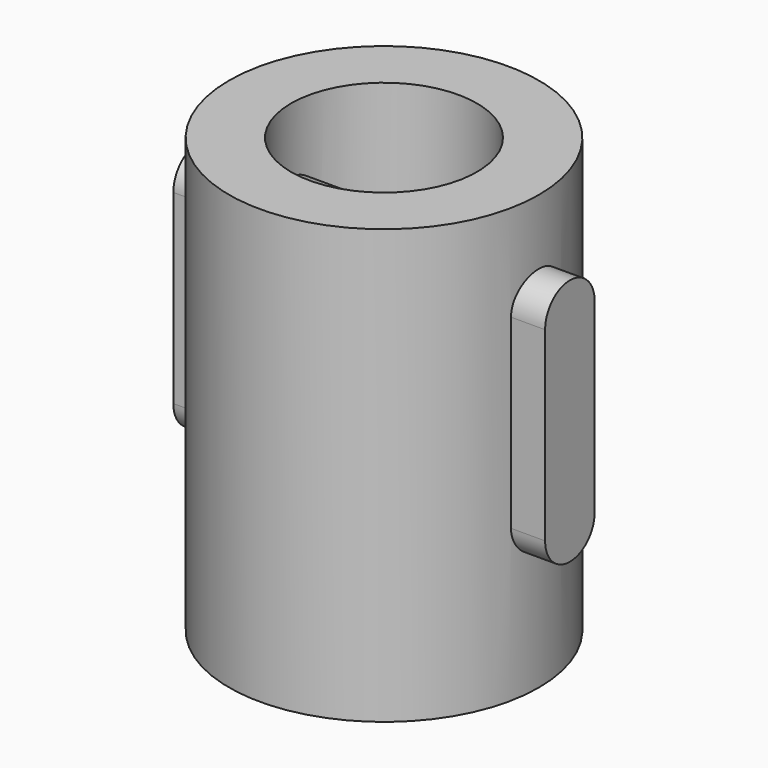
from build123d import *

# Parameters (mm, degrees)
F0_R     = 25
F1_DEPTH = 70
F3_D     = 30
F3_DEPTH = 50
F3_TIP   = 9.0129092854
F4_W     = 10
F4_H     = 30
F5_DEPTH = 30


with BuildPart() as f1:
    # F0 (on Top) → F1 (new body)
    with BuildSketch(Plane.XY):
        Circle(F0_R)
    extrude(amount=F1_DEPTH)

    # F3
    with Locations(Plane.XY.offset(70)):
        with Locations((0, 0)):
            Hole(F3_D / 2, depth=F3_DEPTH)
            with Locations((0, 0, -(F3_DEPTH + F3_TIP / 2))):  # 118° drill point
                Cone(0, F3_D / 2, F3_TIP, mode=Mode.SUBTRACT)

    # F4 (on Right) → F5 (join, symmetric)
    with BuildSketch(Plane.YZ):
        with BuildLine():
            ThreePointArc((5, 54.499398917), (0, 59.499398917), (-5, 54.499398917))
            Line((-5, 54.499398917), (5, 54.499398917))
        make_face()
        with Locations((0, 39.499398917)):
            Rectangle(F4_W, F4_H)
        with BuildLine():
            Line((5, 24.499398917), (-5, 24.499398917))
            ThreePointArc((-5, 24.499398917), (0, 19.499398917), (5, 24.499398917))
        make_face()
    extrude(amount=F5_DEPTH, both=True)


solid = f1.part
